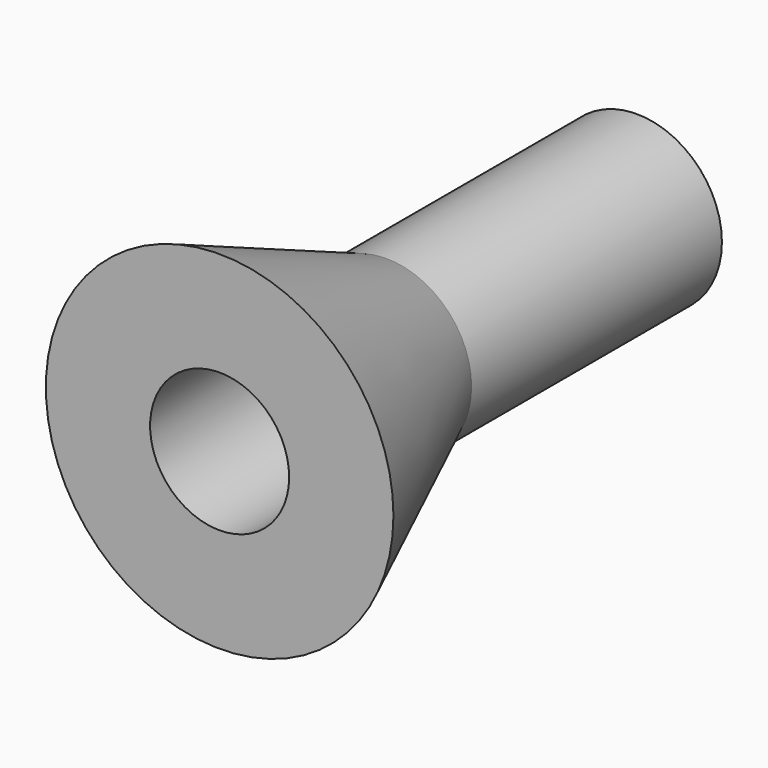
from build123d import *

# Parameters (mm, degrees)
F0_R      = 4.9
F1_DEPTH  = 18
F1_FACE_R = 4.9
F3_R      = 10
F5_R      = 1.5
F6_DEPTH  = 15
F7_R      = 4
F8_DEPTH  = 17.5


with BuildPart() as f1:
    # F0 (on Front) → F1 (new body)
    with BuildSketch(Plane.XZ):
        Circle(F0_R)
    extrude(amount=F1_DEPTH)

    # F1_face (on face) → F4 section 0
    with BuildSketch(Plane.XZ.offset(18)):
        Circle(F1_FACE_R)
    # F3 (on offset) → F4 section 1
    with BuildSketch(Plane.XZ.offset(30)):
        Circle(F3_R)
    loft()

    # F5 (on face) → F6 (cut)
    with BuildSketch(Plane(origin=(0, 0, 0), x_dir=(-1, 0, 0), z_dir=(0, 1, 0))):
        Circle(F5_R)
    extrude(amount=-F6_DEPTH, mode=Mode.SUBTRACT)

    # F7 (on face) → F8 (cut)
    with BuildSketch(Plane.XZ.offset(30)):
        Circle(F7_R)
    extrude(amount=-F8_DEPTH, mode=Mode.SUBTRACT)


solid = f1.part
